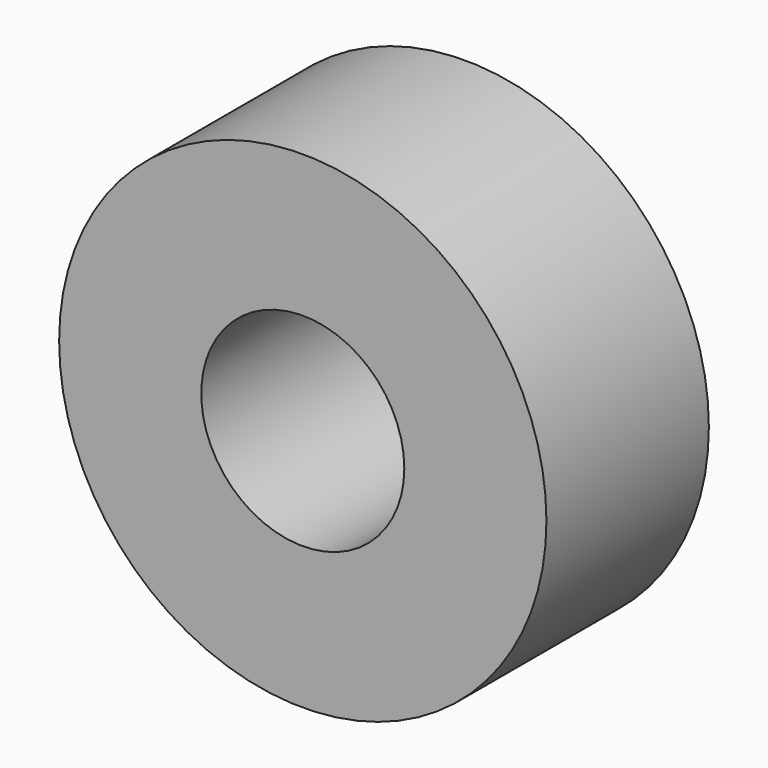
from build123d import *

# Parameters (mm, degrees)
F0_R     = 6
F0_R_2   = 2.5
F1_DEPTH = 5


with BuildPart() as f1:
    # F0 (on Front) → F1 (new body)
    with BuildSketch(Plane.XZ):
        Circle(F0_R)
        Circle(F0_R_2, mode=Mode.SUBTRACT)
    extrude(amount=F1_DEPTH)


with BuildPart() as f2_1:
    # F2: copy of F1
    add(f1.part)


solid = f1.part
